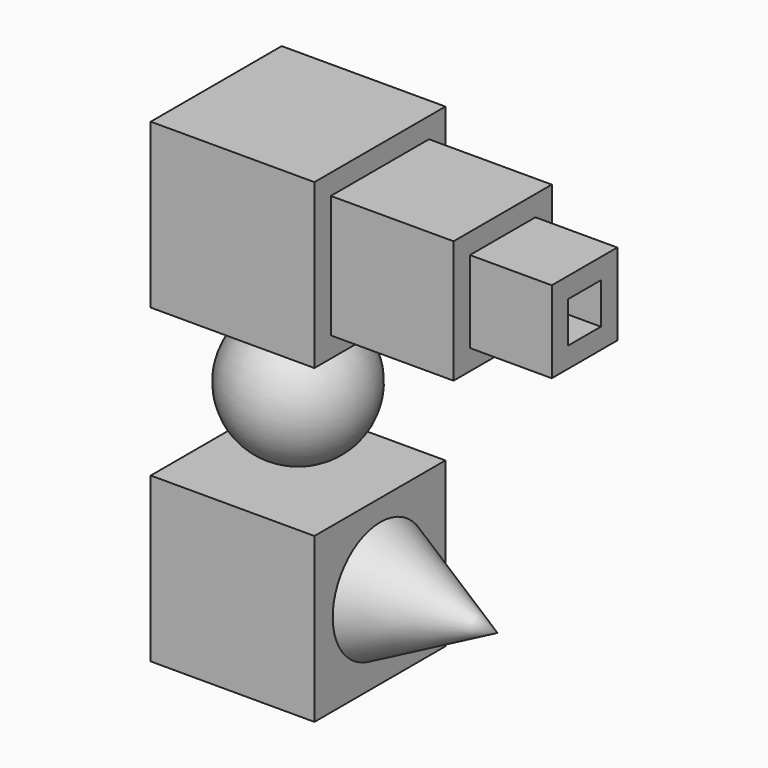
from build123d import *

# Parameters (mm, degrees)
F0_W       = 50.8
F0_H       = 50.8
F1_DEPTH   = 25.4
F2_W       = 50.8
F2_H       = 50.8
F3_DEPTH   = 25.4
F1_FACE_W  = 50.8
F1_FACE_H  = 50.8
F6_DEPTH   = 25.4
F7_DEPTH   = 25.4
F3_FACE_W  = 50.8
F3_FACE_H  = 50.8
F8_DEPTH   = 25.4
F9_W       = 19.05
F9_H       = 18.710193
F10_DEPTH  = 6.35
F10_FACE_W = 19.05
F10_FACE_H = 18.710194
F11_DEPTH  = 6.35
F12_W      = 38.1
F12_H      = 38.1
F13_DEPTH  = 38.1
F14_W      = 25.4
F14_H      = 25.4
F15_DEPTH  = 25.4
F16_W      = 12.7
F16_H      = 12.7
F17_DEPTH  = 88.138


with BuildPart() as f1:
    # F0 (on Front) → F1 (new body)
    with BuildSketch(Plane.XZ):
        with Locations((0, 50.8)):
            Rectangle(F0_W, F0_H)
    extrude(amount=F1_DEPTH)

    # F1_face (on face) → F6 (join)
    with BuildSketch(Plane(origin=(0, 0, 50.8), x_dir=(1, 0, 0), z_dir=(0, 1, 0))):
        Rectangle(F1_FACE_W, F1_FACE_H)
    extrude(amount=F6_DEPTH)



with BuildPart() as f3:
    # F2 (on Front) → F3 (new body)
    with BuildSketch(Plane.XZ):
        with Locations((0, -45.87986)):
            Rectangle(F2_W, F2_H)
    extrude(amount=F3_DEPTH)

    # F2 (on Front) → F7 (join)
    with BuildSketch(Plane.XZ):
        with Locations((0, -45.87986)):
            Rectangle(F2_W, F2_H)
    extrude(amount=F7_DEPTH)

    # F3_face (on face) → F8 (join)
    with BuildSketch(Plane(origin=(0, 0, -45.87986), x_dir=(1, 0, 0), z_dir=(0, 1, 0))):
        Rectangle(F3_FACE_W, F3_FACE_H)
    extrude(amount=F8_DEPTH)


with BuildPart() as f5:
    # F4 (on Front) → F5 (revolve)
    with BuildSketch(Plane.XZ):
        with BuildLine():
            ThreePointArc((0, -17.344825), (20.809886, 3.077308), (0, 23.49944))
            Line((0, 23.49944), (0, -17.344825))
        make_face()
    revolve(axis=Axis((0, 0, 3.077308), (0, 0, -1)))


with BuildPart() as f10:
    # F9 (on Front) → F10 (new body)
    with BuildSketch(Plane.XZ):
        with Locations((67.559119, 49.936313)):
            Rectangle(F9_W, F9_H)
    extrude(amount=F10_DEPTH)

    # F10_face (on face) → F11 (join)
    with BuildSketch(Plane(origin=(67.559119, 0, 49.936313), x_dir=(1, 0, 0), z_dir=(0, 1, 0))):
        Rectangle(F10_FACE_W, F10_FACE_H)
    extrude(amount=F11_DEPTH)


with BuildPart() as f1_1:
    add(f1.part)

    add(f10.part)  # F13 merges F10
    # F12 (on face) → F13 (join)
    with BuildSketch(Plane.YZ.offset(25.4)):
        with Locations((0, 50.8)):
            Rectangle(F12_W, F12_H)
    extrude(amount=F13_DEPTH)

    # F14 (on face) → F15 (join)
    with BuildSketch(Plane.YZ.offset(63.5)):
        with Locations((0, 50.8)):
            Rectangle(F14_W, F14_H)
    extrude(amount=F15_DEPTH)

    # F16 (on face) → F17 (cut)
    with BuildSketch(Plane.YZ.offset(88.9)):
        with Locations((0, 50.8)):
            Rectangle(F16_W, F16_H)
    extrude(amount=-F17_DEPTH, mode=Mode.SUBTRACT)


with BuildPart() as f19:
    # F18 (on Front) → F19 (revolve)
    with BuildSketch(Plane.XZ):
        Polygon((25.932867, -24.338705), (25.932867, -42.802554), (62.301051, -42.802554), align=None)
    revolve(axis=Axis((44.116959, 0, -42.802554), (1, 0, 0)))


with BuildPart() as f19_1:
    # F20: moved
    add(f19.part.moved(Location((0, -0.508, -2.286))))


solid = Compound([f3.part, f5.part, f1_1.part, f19_1.part])
